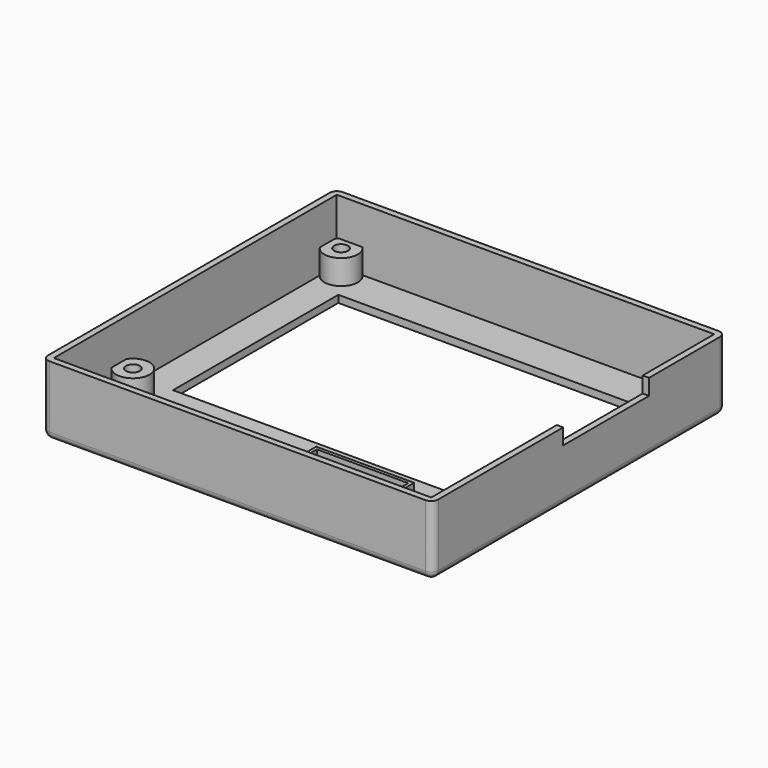
from build123d import *

# Parameters (mm, degrees)
SKETCH_W      = 98.2
SKETCH_H      = 92.2
SKETCH_R      = 5
SKETCH_R_2    = 3.2
SKETCH_R_3    = 1.4
SKETCH_R_4    = 2.2
SKETCH_R_5    = 3
SKETCH_W_2    = 79
SKETCH_H_2    = 52
SKETCH_W_3    = 23
SKETCH_H_3    = 10.5
PAD_DEPTH     = 1.8
SKETCH001_W   = 98.2
SKETCH001_H   = 92.2
SKETCH001_W_2 = 95
SKETCH001_H_2 = 89
PAD001_DEPTH  = 15.7
SKETCH002_R   = 4.2
SKETCH002_R_2 = 3
PAD002_DEPTH  = 1.6
SKETCH026_R   = 4.2
SKETCH026_R_2 = 1.75
PAD013_DEPTH  = 4.6
SKETCH027_W   = 24.64
SKETCH027_H   = 12.14
SKETCH027_W_2 = 23
SKETCH027_H_2 = 10.5
PAD014_DEPTH  = 6.2
SKETCH003_W   = 27
SKETCH003_H   = 4
POCKET_DEPTH  = 1.6
FILLET_R      = 1.799


with BuildPart() as part:
    # Sketch → Pad (new body)
    with BuildSketch(Plane.XY):
        Rectangle(SKETCH_W, SKETCH_H)
        with Locations((-37, -35)):
            Circle(SKETCH_R, mode=Mode.SUBTRACT)
        with Locations((-4, -35)):
            Circle(SKETCH_R_2, mode=Mode.SUBTRACT)
        with Locations((-23.1, -35)):
            Circle(SKETCH_R_3, mode=Mode.SUBTRACT)
        with Locations((-18.5, -30.4)):
            Circle(SKETCH_R_3, mode=Mode.SUBTRACT)
        with Locations((-13.9, -35)):
            Circle(SKETCH_R_3, mode=Mode.SUBTRACT)
        with Locations((-18.5, -39.6)):
            Circle(SKETCH_R_3, mode=Mode.SUBTRACT)
        with Locations((-18.5, -35)):
            Circle(SKETCH_R_4, mode=Mode.SUBTRACT)
        with Locations((-21.752691, -31.747309)):
            Circle(SKETCH_R_3, mode=Mode.SUBTRACT)
        with Locations((-15.247309, -31.747309)):
            Circle(SKETCH_R_3, mode=Mode.SUBTRACT)
        with Locations((-15.247309, -38.252691)):
            Circle(SKETCH_R_3, mode=Mode.SUBTRACT)
        with Locations((-21.752691, -38.252691)):
            Circle(SKETCH_R_3, mode=Mode.SUBTRACT)
        with Locations((38.5, -31.5)):
            Circle(SKETCH_R_2, mode=Mode.SUBTRACT)
        with Locations((-44, 41.5)):
            Circle(SKETCH_R_5, mode=Mode.SUBTRACT)
        with Locations((44, 41.5)):
            Circle(SKETCH_R_5, mode=Mode.SUBTRACT)
        with Locations((-44, -24)):
            Circle(SKETCH_R_5, mode=Mode.SUBTRACT)
        with Locations((44, -24)):
            Circle(SKETCH_R_5, mode=Mode.SUBTRACT)
        with Locations((0, 9)):
            Rectangle(SKETCH_W_2, SKETCH_H_2, mode=Mode.SUBTRACT)
        with Locations((17.25, -33.55)):
            Rectangle(SKETCH_W_3, SKETCH_H_3, mode=Mode.SUBTRACT)
    extrude(amount=PAD_DEPTH)

    # Sketch001 → Pad001 (join)
    with BuildSketch(Plane.XY.offset(1.8)):
        Rectangle(SKETCH001_W, SKETCH001_H)
        Rectangle(SKETCH001_W_2, SKETCH001_H_2, mode=Mode.SUBTRACT)
    extrude(amount=PAD001_DEPTH)

    # Sketch002 → Pad002 (join)
    with BuildSketch(Plane.XY.offset(1.8)):
        with Locations((-44, 41.5)):
            Circle(SKETCH002_R)
        with Locations((-44, 41.5)):
            Circle(SKETCH002_R_2, mode=Mode.SUBTRACT)
        with Locations((44, 41.5)):
            Circle(SKETCH002_R)
        with Locations((44, 41.5)):
            Circle(SKETCH002_R_2, mode=Mode.SUBTRACT)
        with Locations((44, -24)):
            Circle(SKETCH002_R)
        with Locations((44, -24)):
            Circle(SKETCH002_R_2, mode=Mode.SUBTRACT)
        with Locations((-44, -24)):
            Circle(SKETCH002_R)
        with Locations((-44, -24)):
            Circle(SKETCH002_R_2, mode=Mode.SUBTRACT)
    extrude(amount=PAD002_DEPTH)

    # Sketch026 → Pad013 (join)
    with BuildSketch(Plane.XY.offset(3.4)):
        with Locations((-44, 41.5)):
            Circle(SKETCH026_R)
        with Locations((-44, 41.5)):
            Circle(SKETCH026_R_2, mode=Mode.SUBTRACT)
        with Locations((44, 41.5)):
            Circle(SKETCH026_R)
        with Locations((44, 41.5)):
            Circle(SKETCH026_R_2, mode=Mode.SUBTRACT)
        with Locations((44, -24)):
            Circle(SKETCH026_R)
        with Locations((44, -24)):
            Circle(SKETCH026_R_2, mode=Mode.SUBTRACT)
        with Locations((-44, -24)):
            Circle(SKETCH026_R)
        with Locations((-44, -24)):
            Circle(SKETCH026_R_2, mode=Mode.SUBTRACT)
    extrude(amount=PAD013_DEPTH)

    # Sketch027 → Pad014 (join)
    with BuildSketch(Plane.XY.offset(1.8)):
        with Locations((17.25, -33.55)):
            Rectangle(SKETCH027_W, SKETCH027_H)
        with Locations((17.25, -33.55)):
            Rectangle(SKETCH027_W_2, SKETCH027_H_2, mode=Mode.SUBTRACT)
    extrude(amount=PAD014_DEPTH)

    # Sketch003 → Pocket (cut)
    with BuildSketch(Plane.YZ.offset(49.1)):
        with Locations((8.5, 15.5)):
            Rectangle(SKETCH003_W, SKETCH003_H)
    extrude(amount=-POCKET_DEPTH, mode=Mode.SUBTRACT)

    # Fillet
    fillet_edges = [part.edges().sort_by_distance(p)[0] for p in [
        (-49.1, -46.1, 8.75),
        (0, -46.1, 0),
        (-49.1, 0, 0),
        (-49.1, 46.1, 8.75),
        (49.1, -46.1, 8.75),
        (49.1, 0, 0),
        (0, 46.1, 0),
        (49.1, 46.1, 8.75),
    ]]
    fillet(fillet_edges, radius=FILLET_R)


solid = part.part
